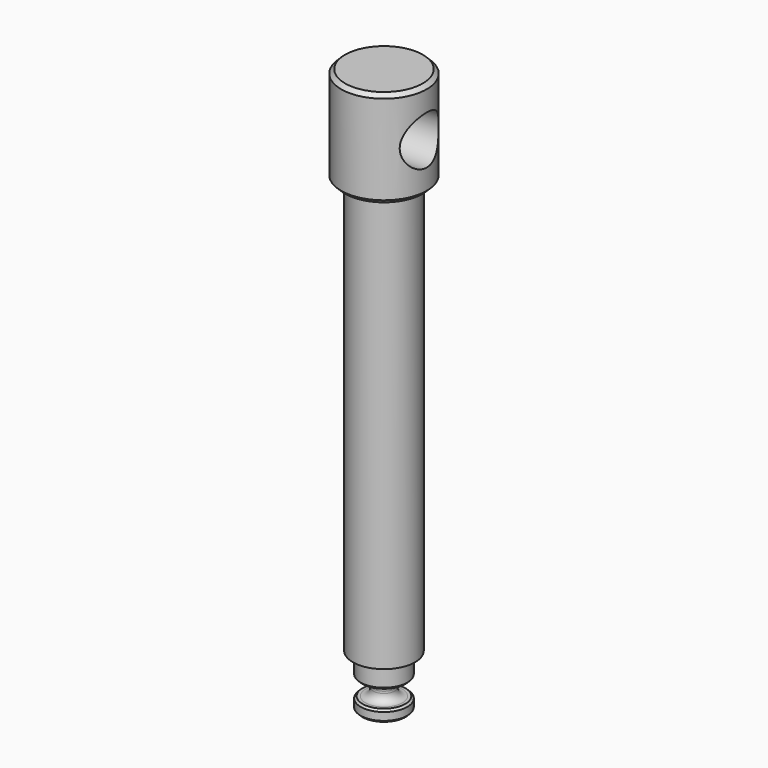
from build123d import *

# Parameters (mm, degrees)
F2_R     = 2
F3_SIZE  = 0.5
F4_R     = 6.25
F5_DEPTH = 20.1
F6_SIZE  = 1


with BuildPart() as f1:
    # F0 (on Front) → F1 (revolve)
    with BuildSketch(Plane.XZ):
        Polygon((-6, 0), (0, 0), (0, 145), (-11, 145), (-11, 120), (-8, 120), (-8, 13.25), (-6, 13.25), (-6, 7.5), (-2.75, 7.5), (-2.75, 3), (-6, 3), align=None)
    revolve(axis=Axis((0, 0, 49.5666371724), (0, 0, 1)))

    # F2
    f2_edges = [f1.edges().sort_by_distance(p)[0] for p in [
        (2.75, 0, 7.5),
        (2.75, 0, 3),
        (-2.75, 0, 5.25),
    ]]
    fillet(f2_edges, radius=F2_R)

    # F3
    f3_edges = [f1.edges().sort_by_distance(p)[0] for p in [
        (6, 0, 7.5),
        (6, 0, 3),
        (6, 0, 0),
    ]]
    chamfer(f3_edges, length=F3_SIZE)

    # F4 (on Right) → F5 (cut, symmetric)
    with BuildSketch(Plane.YZ):
        with Locations((0, 132.5)):
            Circle(F4_R)
    extrude(amount=F5_DEPTH, both=True, mode=Mode.SUBTRACT)

    # F6
    f6_edges = [f1.edges().sort_by_distance(p)[0] for p in [
        (11, 0, 145),
        (11, 0, 120),
    ]]
    chamfer(f6_edges, length=F6_SIZE)


solid = f1.part
